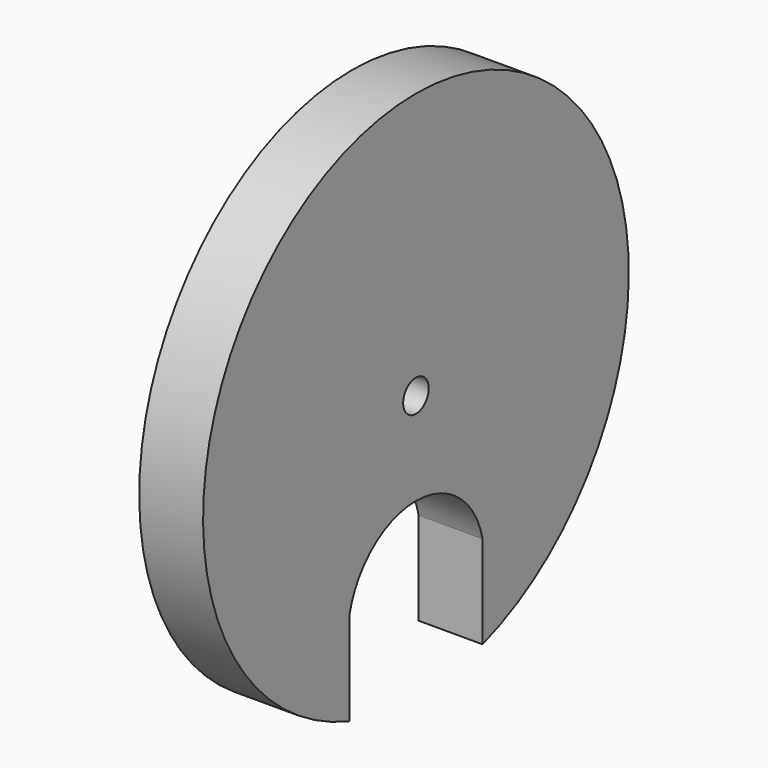
from build123d import *

# Parameters (mm, degrees)
SKETCH_R  = 3
PAD_DEPTH = 12


with BuildPart() as part:
    # Sketch → Pad (new body)
    with BuildSketch(Plane.YZ):
        with BuildLine():
            ThreePointArc((15.646539, -47.488797), (0, 50), (-15.646539, -47.488797))
            Line((-15.646539, -30.053604), (-15.646539, -47.488797))
            ThreePointArc((15.646539, -30.053604), (0, -17.398124), (-15.646539, -30.053604))
            Line((15.646539, -47.488797), (15.646539, -30.053604))
        make_face()
        Circle(SKETCH_R, mode=Mode.SUBTRACT)
    extrude(amount=PAD_DEPTH)


solid = part.part
